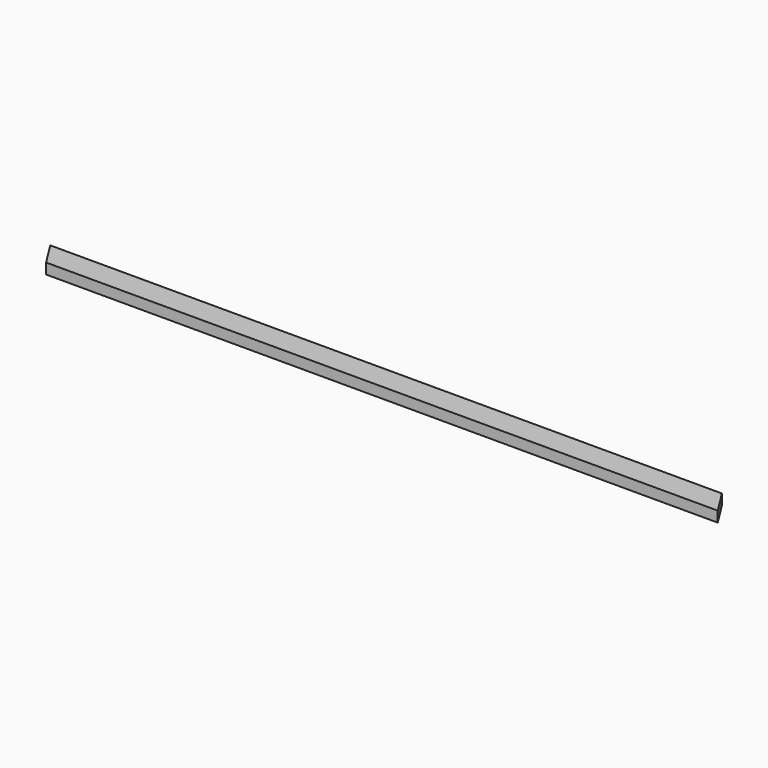
from build123d import *

# Parameters (mm, degrees)
F1_DEPTH = 19.05


with BuildPart() as f1:
    # F0 (on Top) → F1 (new body, symmetric)
    with BuildSketch(Plane.XY):
        Polygon((-1180.592468, -44.45), (1236.6625, -44.45), (1180.592468, 44.45), (-1236.6625, 44.45), align=None)
    extrude(amount=F1_DEPTH, both=True)


solid = f1.part
